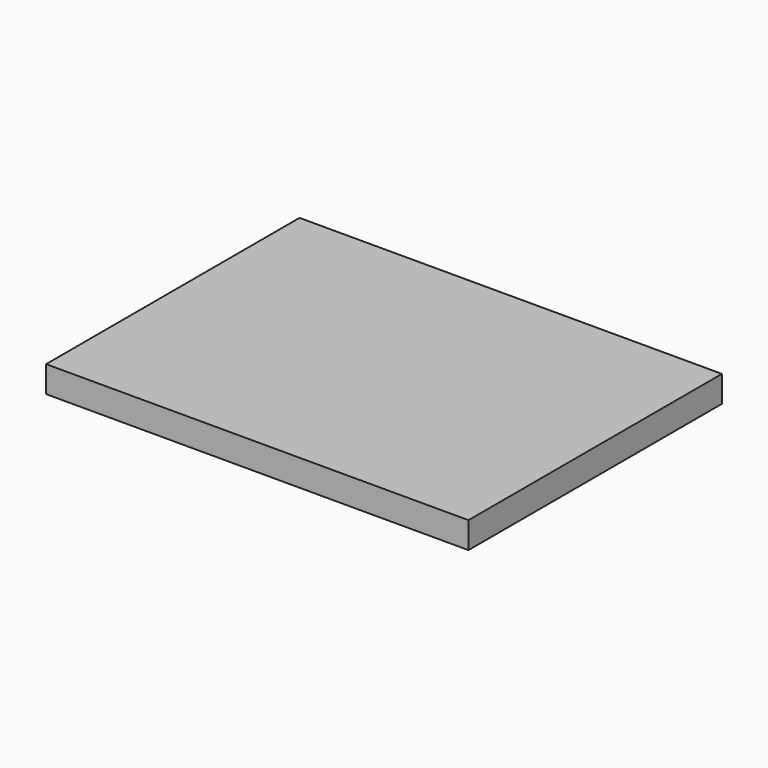
from build123d import *

# Parameters (mm, degrees)
SKETCH_W  = 50.8
SKETCH_H  = 38.1
PAD_DEPTH = 3.175


with BuildPart() as part:
    # Sketch → Pad (new body)
    with BuildSketch(Plane.XY):
        Rectangle(SKETCH_W, SKETCH_H)
    extrude(amount=PAD_DEPTH)


solid = part.part
